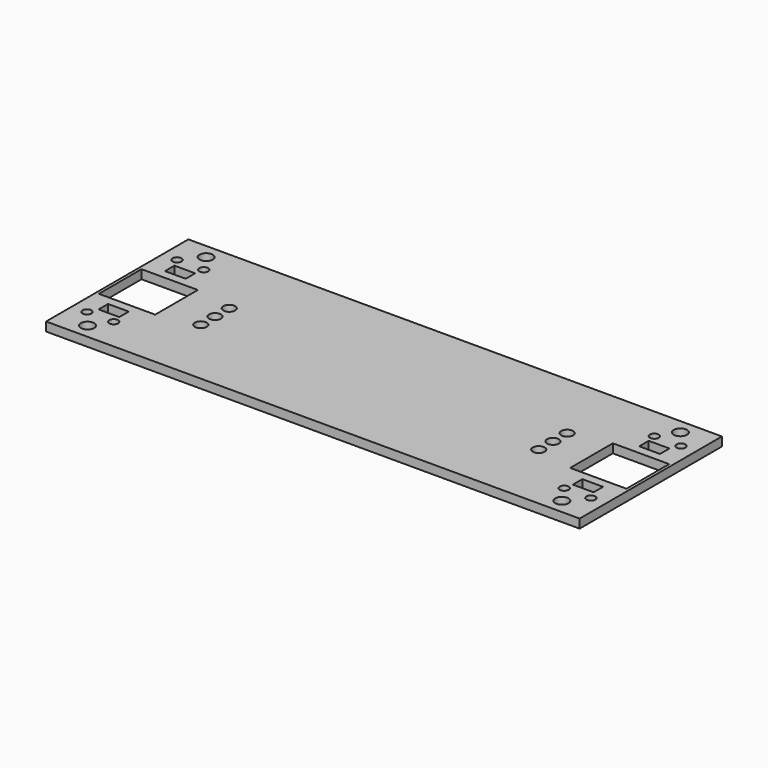
from build123d import *

# Parameters (mm, degrees)
SKETCH_W   = 90
SKETCH_H   = 60
SKETCH_R   = 2.25
SKETCH_R_2 = 2
SKETCH_R_3 = 1.5
SKETCH_W_2 = 7
SKETCH_H_2 = 4
SKETCH_W_3 = 19
SKETCH_H_3 = 18
PAD_DEPTH  = 3


with BuildPart() as part:
    # Sketch → Pad (new body)
    with BuildSketch(Plane.XY):
        with Locations((45, 30)):
            Rectangle(SKETCH_W, SKETCH_H)
        with Locations((10, 5)):
            Circle(SKETCH_R, mode=Mode.SUBTRACT)
        with Locations((33, 24)):
            Circle(SKETCH_R_2, mode=Mode.SUBTRACT)
        with Locations((33, 36)):
            Circle(SKETCH_R_2, mode=Mode.SUBTRACT)
        with Locations((33, 30)):
            Circle(SKETCH_R_2, mode=Mode.SUBTRACT)
        with Locations((10, 55)):
            Circle(SKETCH_R, mode=Mode.SUBTRACT)
        with Locations((14, 11)):
            Circle(SKETCH_R_3, mode=Mode.SUBTRACT)
        with Locations((5, 11)):
            Circle(SKETCH_R_3, mode=Mode.SUBTRACT)
        with Locations((14, 49)):
            Circle(SKETCH_R_3, mode=Mode.SUBTRACT)
        with Locations((5, 49)):
            Circle(SKETCH_R_3, mode=Mode.SUBTRACT)
        with Locations((10, 16)):
            Rectangle(SKETCH_W_2, SKETCH_H_2, mode=Mode.SUBTRACT)
        with Locations((10, 44)):
            Rectangle(SKETCH_W_2, SKETCH_H_2, mode=Mode.SUBTRACT)
        with Locations((10.5, 30)):
            Rectangle(SKETCH_W_3, SKETCH_H_3, mode=Mode.SUBTRACT)
    pad = extrude(amount=PAD_DEPTH)

    # Mirrored: Pad across face of Pad
    add(pad.mirror(Plane(origin=(90, 30, 1.5), x_dir=(0, 1, 0), z_dir=(1, 0, 0))))


solid = part.part
